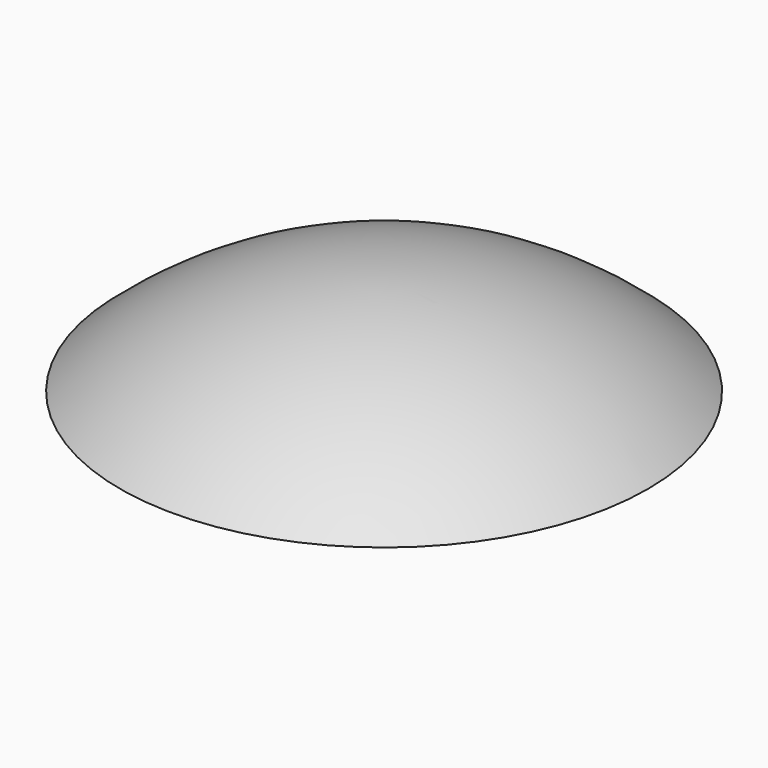
from build123d import *

# Parameters (mm, degrees)
CYLINDER032_R               = 9
CYLINDER032_DEPTH           = 10
CYLINDER032_PITCH_ANGLE     = 90
BOX034_W                    = 10
BOX034_H                    = 18
BOX034_DEPTH                = 6
CYLINDER031_R               = 9
CYLINDER031_DEPTH           = 10
CYLINDER031_PITCH_ANGLE     = 90
CYLINDER030_R               = 7.5
CYLINDER030_DEPTH           = 20
CYLINDER030_PITCH_ANGLE     = 90
BOX030_W                    = 98
BOX030_H                    = 98
BOX030_DEPTH                = 98
CYLINDER028_R               = 4
CYLINDER028_DEPTH           = 52
CYLINDER028_PITCH_ANGLE     = -90
CYLINDER028_PLACEMENT_ANGLE = 170
BOX032_W                    = 120
BOX032_H                    = 64
BOX032_DEPTH                = 15
BOX032_PLACEMENT_ANGLE      = 45
BOX031_W                    = 120
BOX031_H                    = 61
BOX031_DEPTH                = 15
BOX031_PLACEMENT_ANGLE      = -10
CYLINDER029_R               = 52
CYLINDER029_DEPTH           = 8
CYLINDER027_R               = 4
CYLINDER027_DEPTH           = 52
CYLINDER027_PITCH_ANGLE     = -90
CYLINDER027_PLACEMENT_ANGLE = 45
BOX033_W                    = 10
BOX033_H                    = 47
BOX033_DEPTH                = 24
BOX028_W                    = 74
BOX028_H                    = 59
BOX028_DEPTH                = 24


with BuildPart() as cilindro024:
    # Cylinder032 → Cylinder032 (new body)
    with BuildSketch(Plane.XY):
        Circle(CYLINDER032_R)
    extrude(amount=CYLINDER032_DEPTH)


with BuildPart() as cilindro024_1:
    # Cylinder032 pitch: moved
    add(cilindro024.part.rotate(Axis((0, 0, 0), (0, 1, 0)), CYLINDER032_PITCH_ANGLE))


with BuildPart() as cilindro024_2:
    # Cylinder032 placement: moved
    add(cilindro024_1.part.moved(Location((-33, 0, 3))))


with BuildPart() as cubo027:
    # Box034 → Box034 (new body)
    with BuildSketch(Plane(origin=(-33, -9, -3), x_dir=(1, 0, 0), z_dir=(0, 0, 1))):
        with Locations((5, 9)):
            Rectangle(BOX034_W, BOX034_H)
    extrude(amount=BOX034_DEPTH)


with BuildPart() as obj1:
    # Cylinder031 → Cylinder031 (new body)
    with BuildSketch(Plane.XY):
        Circle(CYLINDER031_R)
    extrude(amount=CYLINDER031_DEPTH)


with BuildPart() as obj1_1:
    # Cylinder031 pitch: moved
    add(obj1.part.rotate(Axis((0, 0, 0), (0, 1, 0)), CYLINDER031_PITCH_ANGLE))


with BuildPart() as obj1_2:
    # Cylinder031 placement: moved
    add(obj1_1.part.moved(Location((-33, 0, -3))))

    # Fusion022: union Cilindro024, Cubo027
    add(cilindro024_2.part)
    add(cubo027.part)


with BuildPart() as obj2:
    # Cylinder030 → Cylinder030 (new body)
    with BuildSketch(Plane.XY):
        Circle(CYLINDER030_R)
    extrude(amount=CYLINDER030_DEPTH)


with BuildPart() as obj2_1:
    # Cylinder030 pitch: moved
    add(obj2.part.rotate(Axis((0, 0, 0), (0, 1, 0)), CYLINDER030_PITCH_ANGLE))


with BuildPart() as obj2_2:
    # Cylinder030 placement: moved
    add(obj2_1.part.moved(Location((-46, 0, 0))))


with BuildPart() as obj3:
    # Box030 → Box030 (new body)
    with BuildSketch(Plane(origin=(-51, 49, 0), x_dir=(1, 0, 0), z_dir=(0, 0, -1))):
        with Locations((49, 49)):
            Rectangle(BOX030_W, BOX030_H)
    extrude(amount=BOX030_DEPTH)


with BuildPart() as cilindro021:
    # Cylinder028 → Cylinder028 (new body)
    with BuildSketch(Plane.XY):
        Circle(CYLINDER028_R)
    extrude(amount=CYLINDER028_DEPTH)


with BuildPart() as cilindro021_1:
    # Cylinder028 pitch: moved
    add(cilindro021.part.rotate(Axis((0, 0, 0), (0, 1, 0)), CYLINDER028_PITCH_ANGLE))


with BuildPart() as cilindro021_2:
    # Cylinder028 placement: moved
    add(cilindro021_1.part.rotate(Axis((0, 0, 0), (0, 0, 1)), CYLINDER028_PLACEMENT_ANGLE))


with BuildPart() as cubo025:
    # Box032 → Box032 (new body)
    with BuildSketch(Plane.XY):
        with Locations((60, 32)):
            Rectangle(BOX032_W, BOX032_H)
    extrude(amount=BOX032_DEPTH)


with BuildPart() as cubo025_1:
    # Box032 placement: moved
    add(cubo025.part.moved(Location((-42.426407, -42.426407, -9))).rotate(Axis((-42.426407, -42.426407, -9), (0, 0, 1)), BOX032_PLACEMENT_ANGLE))


with BuildPart() as cubo024:
    # Box031 → Box031 (new body)
    with BuildSketch(Plane.XY):
        with Locations((60, 30.5)):
            Rectangle(BOX031_W, BOX031_H)
    extrude(amount=BOX031_DEPTH)


with BuildPart() as cubo024_1:
    # Box031 placement: moved
    add(cubo024.part.moved(Location((-59.088465, 10.418891, -8))).rotate(Axis((-59.088465, 10.418891, -8), (0, 0, 1)), BOX031_PLACEMENT_ANGLE))


with BuildPart() as cut043:
    # Cylinder029 → Cylinder029 (new body)
    with BuildSketch(Plane.XY.offset(-4)):
        Circle(CYLINDER029_R)
    extrude(amount=CYLINDER029_DEPTH)

    # Cut045: cut Cubo024
    add(cubo024_1.part, mode=Mode.SUBTRACT)

    # Cut043: cut Cubo025
    add(cubo025_1.part, mode=Mode.SUBTRACT)


with BuildPart() as ranura005:
    # Cylinder027 → Cylinder027 (new body)
    with BuildSketch(Plane.XY):
        Circle(CYLINDER027_R)
    extrude(amount=CYLINDER027_DEPTH)


with BuildPart() as ranura005_1:
    # Cylinder027 pitch: moved
    add(ranura005.part.rotate(Axis((0, 0, 0), (0, 1, 0)), CYLINDER027_PITCH_ANGLE))


with BuildPart() as ranura005_2:
    # Cylinder027 placement: moved
    add(ranura005_1.part.rotate(Axis((0, 0, 0), (0, 0, 1)), CYLINDER027_PLACEMENT_ANGLE))

    # Fusion020: union Cilindro021, Cut043
    add(cilindro021_2.part)
    add(cut043.part)


with BuildPart() as obj4:
    # Sphere006 → Sphere006 (revolve)
    with BuildSketch(Plane.XZ):
        with BuildLine():
            ThreePointArc((0, -35), (35, 0), (0, 35))
            Line((0, 35), (0, -35))
        make_face()
    revolve(axis=Axis((0, 0, 0), (0, 0, 1)))


with BuildPart() as obj5:
    # Sphere007 → Sphere007 (revolve)
    with BuildSketch(Plane.XZ):
        with BuildLine():
            ThreePointArc((0, -38), (38, 0), (0, 38))
            Line((0, 38), (0, -38))
        make_face()
    revolve(axis=Axis((0, 0, 0), (0, 0, 1)))

    # Cut044: cut obj4
    add(obj4.part, mode=Mode.SUBTRACT)

    # Cut042: cut Ranura005
    add(ranura005_2.part, mode=Mode.SUBTRACT)

    # Cut046: cut obj3
    add(obj3.part, mode=Mode.SUBTRACT)


with BuildPart() as obj6:
    # Sphere008 → Sphere008 (revolve)
    with BuildSketch(Plane.XZ):
        with BuildLine():
            ThreePointArc((0, -35), (35, 0), (0, 35))
            Line((0, 35), (0, -35))
        make_face()
    revolve(axis=Axis((0, 0, 0), (0, 0, 1)))


with BuildPart() as obj7:
    # Box033 → Box033 (new body)
    with BuildSketch(Plane(origin=(-38, -22, 0), x_dir=(1, 0, 0), z_dir=(0, 0, 1))):
        with Locations((5, 23.5)):
            Rectangle(BOX033_W, BOX033_H)
    extrude(amount=BOX033_DEPTH)

    # Common002: intersect obj6
    add(obj6.part, mode=Mode.INTERSECT)

    # Fusion021: union obj5
    add(obj5.part)

    # Cut047: cut obj2
    add(obj2_2.part, mode=Mode.SUBTRACT)

    # Cut048: cut obj1
    add(obj1_2.part, mode=Mode.SUBTRACT)


with BuildPart() as obj8:
    # Box028 → Box028 (new body)
    with BuildSketch(Plane(origin=(-39, -30, 28.5), x_dir=(1, 0, 0), z_dir=(0, 0, 1))):
        with Locations((37, 29.5)):
            Rectangle(BOX028_W, BOX028_H)
    extrude(amount=BOX028_DEPTH)

    # Common003: intersect obj7
    add(obj7.part, mode=Mode.INTERSECT)


solid = obj8.part
